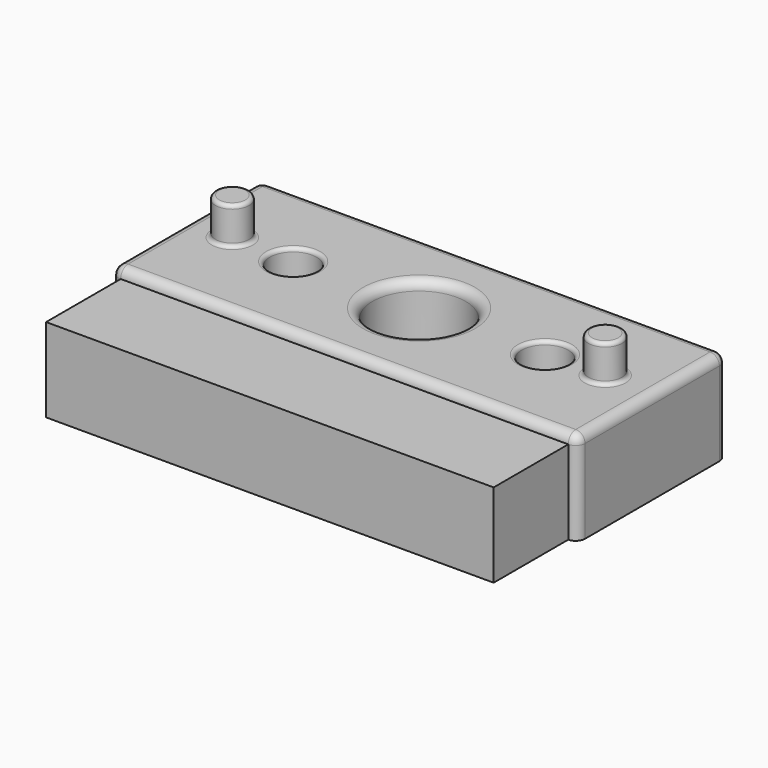
from build123d import *

# Parameters (mm, degrees)
F0_W      = 250
F0_H      = 100
F0_R      = 12.5
F0_R_2    = 25
F1_DEPTH  = 50
F2_R      = 5
F3_R      = 5
F4_R      = 9
F5_DEPTH  = 20
F6_R      = 2
F7_R      = 2
F1_FACE_W = 240
F1_FACE_H = 45
F8_DEPTH  = 50


with BuildPart() as f1:
    # F0 (on Top) → F1 (new body)
    with BuildSketch(Plane.XY):
        with Locations((-86.649109, 32.35614)):
            Rectangle(F0_W, F0_H)
        with Locations((-154.149109, 32.35614)):
            Circle(F0_R, mode=Mode.SUBTRACT)
        with Locations((-19.149109, 32.35614)):
            Circle(F0_R, mode=Mode.SUBTRACT)
        with Locations((-86.649109, 32.35614)):
            Circle(F0_R_2, mode=Mode.SUBTRACT)
    extrude(amount=F1_DEPTH)

    # F2
    f2_edges = [f1.edges().sort_by_distance(p)[0] for p in [
        (-111.649109, 32.35614, 50),
    ]]
    fillet(f2_edges, radius=F2_R)

    # F3
    f3_edges = [f1.edges().sort_by_distance(p)[0] for p in [
        (-86.649109, -17.64386, 50),
        (-211.649109, 32.35614, 50),
        (-86.649109, 82.35614, 50),
        (38.350891, 32.35614, 50),
        (38.350891, -17.64386, 25),
        (38.350891, 82.35614, 25),
        (-211.649109, -17.64386, 25),
        (-211.649109, 82.35614, 25),
    ]]
    fillet(f3_edges, radius=F3_R)

    # F4 (on face) → F5 (join)
    with BuildSketch(Plane.XY.offset(50)):
        with Locations((-187.665997, 33.465776)):
            Circle(F4_R)
        with Locations((12.334003, 33.387488)):
            Circle(F4_R)
    extrude(amount=F5_DEPTH)

    # F6
    f6_edges = [f1.edges().sort_by_distance(p)[0] for p in [
        (-196.665997, 33.465776, 70),
        (3.334003, 33.387488, 70),
        (3.334003, 33.387488, 50),
        (-196.665997, 33.465776, 50),
    ]]
    fillet(f6_edges, radius=F6_R)

    # F7
    f7_edges = [f1.edges().sort_by_distance(p)[0] for p in [
        (-166.649109, 32.35614, 50),
        (-31.649109, 32.35614, 50),
    ]]
    fillet(f7_edges, radius=F7_R)

    # F1_face (on face) → F8 (join)
    with BuildSketch(Plane(origin=(-86.649109, -17.64386, 22.5), x_dir=(1, 0, 0), z_dir=(0, -1, 0))):
        Rectangle(F1_FACE_W, F1_FACE_H)
    extrude(amount=F8_DEPTH)


solid = f1.part
